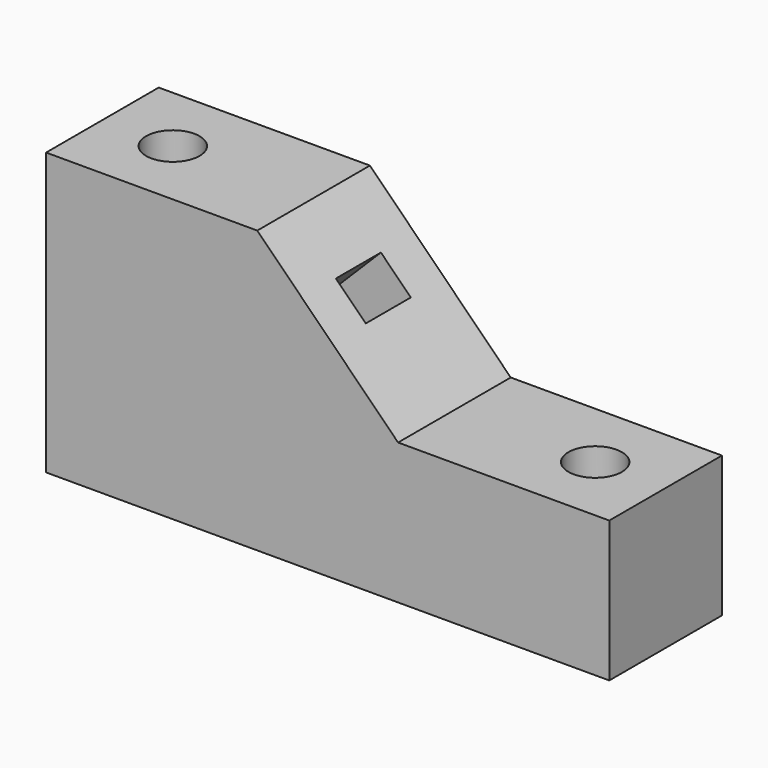
from build123d import *

# Parameters (mm, degrees)
F1_DEPTH = 25.4
F3_DEPTH = 50.801
F4_R     = 4.826
F5_DEPTH = 25.401
F6_W     = 10.16
F6_H     = 7.62
F7_DEPTH = 62.862793


with BuildPart() as f1:
    # F0 (on Front) → F1 (new body)
    with BuildSketch(Plane.XZ):
        Polygon((38.1, 0), (0, 0), (0, -50.8), (101.6, -50.8), (101.6, -25.4), (63.5, -25.4), align=None)
    extrude(amount=F1_DEPTH)

    # F2 (on face) → F3 (cut, through all)
    with BuildSketch(Plane.XY):
        with BuildLine():
            ThreePointArc((7.874, -12.7), (12.7, -17.526), (17.526, -12.7))
            ThreePointArc((17.526, -12.7), (12.7, -7.874), (7.874, -12.7))
        make_face()
    extrude(amount=-F3_DEPTH, mode=Mode.SUBTRACT)

    # F4 (on face) → F5 (cut, through all)
    with BuildSketch(Plane.XY.offset(-25.4)):
        with Locations((88.9, -12.7)):
            Circle(F4_R)
    extrude(amount=-F5_DEPTH, mode=Mode.SUBTRACT)

    # F6 (on face) → F7 (cut, through all)
    with BuildSketch(Plane(origin=(19.05, 0, 19.05), x_dir=(0, 1, 0), z_dir=(0.707107, 0, 0.707107))):
        with Locations((-12.7, -42.180768)):
            Rectangle(F6_W, F6_H)
    extrude(amount=-F7_DEPTH, mode=Mode.SUBTRACT)


solid = f1.part
